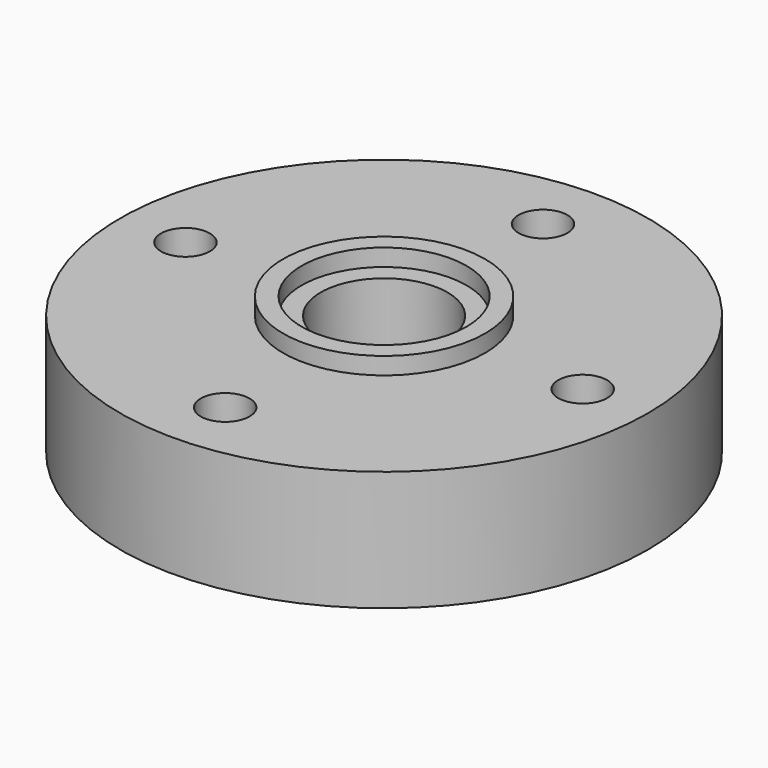
from build123d import *

# Parameters (mm, degrees)
F0_R     = 10
F1_DEPTH = 4.55
F2_R     = 2.4
F3_DEPTH = 2.5
F4_DEPTH = 25
F5_DEPTH = 0.6
F6_R     = 3.825
F6_R_2   = 3.125
F7_DEPTH = 0.65


with BuildPart() as f1:
    # F0 (on Top) → F1 (new body)
    with BuildSketch(Plane.XY):
        Circle(F0_R)
    extrude(amount=F1_DEPTH)

    # F2 (on face) → F3 (cut)
    with BuildSketch(Plane(origin=(0, 0, 0), x_dir=(1, 0, 0), z_dir=(0, 0, -1))):
        with BuildLine():
            ThreePointArc((5.1166810842, 0.45), (6.1969215277, 2.0588121749), (8.1080149502, 2.3796204672))
            ThreePointArc((8.1080149502, 2.3796204672), (5.975052301, 5.975052301), (2.3796204672, 8.1080149502))
            ThreePointArc((2.3796204672, 8.1080149502), (2.4323414794, 7.818623786), (2.45, 7.525))
            ThreePointArc((2.45, 7.525), (1.8848076825, 5.9597524158), (0.45, 5.1166810842))
            Line((0.45, 5.1166810842), (0.45, 3.9242833741))
            ThreePointArc((0.45, 3.9242833741), (2.7930717857, 2.7930717857), (3.9242833741, 0.45))
            Line((3.9242833741, 0.45), (5.1166810842, 0.45))
        make_face()
        with BuildLine():
            ThreePointArc((-0.45, 5.1166810842), (-2.0588121749, 6.1969215277), (-2.3796204672, 8.1080149502))
            ThreePointArc((-2.3796204672, 8.1080149502), (-5.975052301, 5.975052301), (-8.1080149502, 2.3796204672))
            ThreePointArc((-8.1080149502, 2.3796204672), (-6.1969215277, 2.0588121749), (-5.1166810842, 0.45))
            Line((-5.1166810842, 0.45), (-3.9242833741, 0.45))
            ThreePointArc((-3.9242833741, 0.45), (-2.7930717857, 2.7930717857), (-0.45, 3.9242833741))
            Line((-0.45, 3.9242833741), (-0.45, 5.1166810842))
        make_face()
        with BuildLine():
            ThreePointArc((-8.1080149502, -2.3796204672), (-5.975052301, -5.975052301), (-2.3796204672, -8.1080149502))
            ThreePointArc((-2.3796204672, -8.1080149502), (-2.0588121749, -6.1969215277), (-0.45, -5.1166810842))
            Line((-0.45, -5.1166810842), (-0.45, -3.9242833741))
            ThreePointArc((-0.45, -3.9242833741), (-2.7930717857, -2.7930717857), (-3.9242833741, -0.45))
            Line((-3.9242833741, -0.45), (-5.1166810842, -0.45))
            ThreePointArc((-5.1166810842, -0.45), (-6.1969215277, -2.0588121749), (-8.1080149502, -2.3796204672))
        make_face()
        with BuildLine():
            ThreePointArc((2.3796204672, -8.1080149502), (5.975052301, -5.975052301), (8.1080149502, -2.3796204672))
            ThreePointArc((8.1080149502, -2.3796204672), (6.1969215277, -2.0588121749), (5.1166810842, -0.45))
            Line((5.1166810842, -0.45), (3.9242833741, -0.45))
            ThreePointArc((3.9242833741, -0.45), (2.7930717857, -2.7930717857), (0.45, -3.9242833741))
            Line((0.45, -3.9242833741), (0.45, -5.1166810842))
            ThreePointArc((0.45, -5.1166810842), (1.8848076825, -5.9597524158), (2.45, -7.525))
            ThreePointArc((2.45, -7.525), (2.4323414794, -7.818623786), (2.3796204672, -8.1080149502))
        make_face()
        with BuildLine():
            ThreePointArc((8.3331614938, -0.45), (8.420314018, -0.2324603388), (8.45, 0))
            ThreePointArc((8.45, 0), (8.420314018, 0.2324603388), (8.3331614938, 0.45))
            ThreePointArc((8.3331614938, 0.45), (6.6, 0), (8.3331614938, -0.45))
        make_face()
        with BuildLine():
            ThreePointArc((-8.3331614938, 0.45), (-8.4203140187, 0.2324603363), (-8.45, -5.3e-09))
            ThreePointArc((-8.45, -5.3e-09), (-8.4203140174, -0.2324603414), (-8.3331614938, -0.45))
            ThreePointArc((-8.3331614938, -0.45), (-7.2925396612, -0.895314018), (-6.6, 0))
            ThreePointArc((-6.6, 0), (-7.2925396612, 0.895314018), (-8.3331614938, 0.45))
        make_face()
        with BuildLine():
            ThreePointArc((0.45, 8.3331614938), (0.2324603388, 8.420314018), (0, 8.45))
            ThreePointArc((0, 8.45), (-0.2324603388, 8.420314018), (-0.45, 8.3331614938))
            ThreePointArc((-0.45, 8.3331614938), (-0.4687083315, 6.7275431046), (0.925, 7.525))
            ThreePointArc((0.925, 7.525), (0.7974568954, 7.9937083315), (0.45, 8.3331614938))
        make_face()
        with BuildLine():
            ThreePointArc((-0.45, -8.3331614938), (-0.2324603347, -8.4203140191), (8.6e-09, -8.45))
            ThreePointArc((8.6e-09, -8.45), (0.232460343, -8.4203140169), (0.45, -8.3331614938))
            ThreePointArc((0.45, -8.3331614938), (0.7974568954, -7.9937083315), (0.925, -7.525))
            ThreePointArc((0.925, -7.525), (-0.4687083315, -6.7275431046), (-0.45, -8.3331614938))
        make_face()
        Circle(F2_R)
    extrude(amount=-F3_DEPTH, mode=Mode.SUBTRACT)

    # F4 (cut): faces of the model
    f4_faces = [f1.faces().sort_by_distance(p)[0] for p in [
        (7.525, 0, 2.5),
        (-7.525, 0, 2.5),
        (0, -7.525, 2.5),
        (0, 0, 2.5),
        (0, 7.525, 2.5),
    ]]
    extrude(f4_faces, amount=-F4_DEPTH, mode=Mode.SUBTRACT)

    # F2 (on face) → F5 (cut)
    with BuildSketch(Plane(origin=(0, 0, 0), x_dir=(1, 0, 0), z_dir=(0, 0, -1))):
        with BuildLine():
            ThreePointArc((3.95, 0), (3.9435656028, 0.2253671143), (3.9242833741, 0.45))
            ThreePointArc((3.9242833741, 0.45), (2.7930717857, 2.7930717857), (0.45, 3.9242833741))
            ThreePointArc((0.45, 3.9242833741), (0, 3.95), (-0.45, 3.9242833741))
            ThreePointArc((-0.45, 3.9242833741), (-2.7930717857, 2.7930717857), (-3.9242833741, 0.45))
            ThreePointArc((-3.9242833741, 0.45), (-3.95, 0), (-3.9242833741, -0.45))
            ThreePointArc((-3.9242833741, -0.45), (-2.7930717857, -2.7930717857), (-0.45, -3.9242833741))
            ThreePointArc((-0.45, -3.9242833741), (0, -3.95), (0.45, -3.9242833741))
            ThreePointArc((0.45, -3.9242833741), (2.7930717857, -2.7930717857), (3.9242833741, -0.45))
            ThreePointArc((3.9242833741, -0.45), (3.9435656028, -0.2253671143), (3.95, 0))
        make_face()
        Circle(F2_R, mode=Mode.SUBTRACT)
        with BuildLine():
            Line((0.45, 3.9242833741), (0.45, 5.1166810842))
            ThreePointArc((0.45, 5.1166810842), (0, 5.075), (-0.45, 5.1166810842))
            Line((-0.45, 5.1166810842), (-0.45, 3.9242833741))
            ThreePointArc((-0.45, 3.9242833741), (0, 3.95), (0.45, 3.9242833741))
        make_face()
        with BuildLine():
            ThreePointArc((5.1166810842, -0.45), (5.075, 0), (5.1166810842, 0.45))
            Line((5.1166810842, 0.45), (3.9242833741, 0.45))
            ThreePointArc((3.9242833741, 0.45), (3.9435656028, 0.2253671143), (3.95, 0))
            ThreePointArc((3.95, 0), (3.9435656028, -0.2253671143), (3.9242833741, -0.45))
            Line((3.9242833741, -0.45), (5.1166810842, -0.45))
        make_face()
        with BuildLine():
            Line((-0.45, -3.9242833741), (-0.45, -5.1166810842))
            ThreePointArc((-0.45, -5.1166810842), (0, -5.075), (0.45, -5.1166810842))
            Line((0.45, -5.1166810842), (0.45, -3.9242833741))
            ThreePointArc((0.45, -3.9242833741), (0, -3.95), (-0.45, -3.9242833741))
        make_face()
        with BuildLine():
            Line((-3.9242833741, 0.45), (-5.1166810842, 0.45))
            ThreePointArc((-5.1166810842, 0.45), (-5.0854425254, 0.2259631125), (-5.075, 0))
            ThreePointArc((-5.075, 0), (-5.0854425254, -0.2259631125), (-5.1166810842, -0.45))
            Line((-5.1166810842, -0.45), (-3.9242833741, -0.45))
            ThreePointArc((-3.9242833741, -0.45), (-3.95, 0), (-3.9242833741, 0.45))
        make_face()
    extrude(amount=-F5_DEPTH, mode=Mode.SUBTRACT)

    # F6 (on face) → F7 (join)
    with BuildSketch(Plane.XY.offset(4.55)):
        Circle(F6_R)
        Circle(F6_R_2, mode=Mode.SUBTRACT)
    extrude(amount=F7_DEPTH)


solid = f1.part
